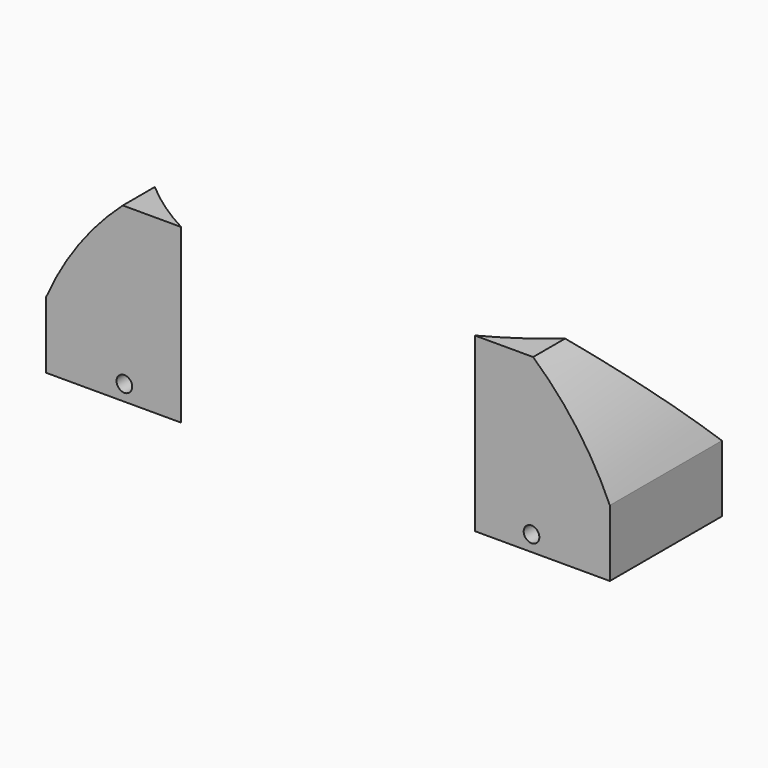
from build123d import *

# Parameters (mm, degrees)
CYLINDER1296_R     = 59
CYLINDER1296_DEPTH = 40
BOX454_W           = 6
BOX454_H           = 2
BOX454_DEPTH       = 6
BOX453_W           = 6
BOX453_H           = 2
BOX453_DEPTH       = 6
CYLINDER212_R      = 1.5
CYLINDER212_DEPTH  = 20
CYLINDER211_R      = 1.5
CYLINDER211_DEPTH  = 20
CYLINDER1295_R     = 60
CYLINDER1295_DEPTH = 33
BOX463_W           = 108
BOX463_H           = 46
BOX463_DEPTH       = 33


with BuildPart() as obj1:
    # Cylinder1296 → Cylinder1296 (new body)
    with BuildSketch(Plane(origin=(0, -17, 21), x_dir=(1, 0, 0), z_dir=(0, -1, 0))):
        Circle(CYLINDER1296_R)
    extrude(amount=CYLINDER1296_DEPTH)


with BuildPart() as krychle454:
    # Box454 → Box454 (new body)
    with BuildSketch(Plane(origin=(-42, -45, 31), x_dir=(1, 0, 0), z_dir=(0, 0, 1))):
        with Locations((3, 1)):
            Rectangle(BOX454_W, BOX454_H)
    extrude(amount=BOX454_DEPTH)


with BuildPart() as compound840:
    # Box453 → Box453 (new body)
    with BuildSketch(Plane(origin=(36, -45, 31), x_dir=(1, 0, 0), z_dir=(0, 0, 1))):
        with Locations((3, 1)):
            Rectangle(BOX453_W, BOX453_H)
    extrude(amount=BOX453_DEPTH)

    # Compound840: union Krychle454
    add(krychle454.part)


with BuildPart() as compound840_1:
    # Compound840 placement: moved
    add(compound840.part.moved(Location((0, -2, -11))))


with BuildPart() as obj2:
    # Cylinder212 → Cylinder212 (new body)
    with BuildSketch(Plane(origin=(39, -40, 34), x_dir=(1, 0, 0), z_dir=(0, -1, 0))):
        Circle(CYLINDER212_R)
    extrude(amount=CYLINDER212_DEPTH)


with BuildPart() as compound836:
    # Cylinder211 → Cylinder211 (new body)
    with BuildSketch(Plane(origin=(-39, -40, 34), x_dir=(1, 0, 0), z_dir=(0, -1, 0))):
        Circle(CYLINDER211_R)
    extrude(amount=CYLINDER211_DEPTH)

    # Compound836: union obj2
    add(obj2.part)


with BuildPart() as compound836_1:
    # Compound836 placement: moved
    add(compound836.part.moved(Location((0, 0, -11))))


with BuildPart() as obj3:
    # Cylinder1295 → Cylinder1295 (new body)
    with BuildSketch(Plane.XY.offset(20)):
        Circle(CYLINDER1295_R)
    extrude(amount=CYLINDER1295_DEPTH)


with BuildPart() as common001:
    # Box463 → Box463 (new body)
    with BuildSketch(Plane(origin=(-54, -53, 20), x_dir=(1, 0, 0), z_dir=(0, 0, 1))):
        with Locations((54, 23)):
            Rectangle(BOX463_W, BOX463_H)
    extrude(amount=BOX463_DEPTH)

    # Cut447: cut obj3
    add(obj3.part, mode=Mode.SUBTRACT)

    # Cut454: cut Compound836
    add(compound836_1.part, mode=Mode.SUBTRACT)

    # Cut443: cut Compound840
    add(compound840_1.part, mode=Mode.SUBTRACT)


with BuildPart() as common001_1:
    # Cut443 placement: moved
    add(common001.part.moved(Location((0, 0, 12))))

    # Common001: intersect obj1
    add(obj1.part, mode=Mode.INTERSECT)


solid = common001_1.part
